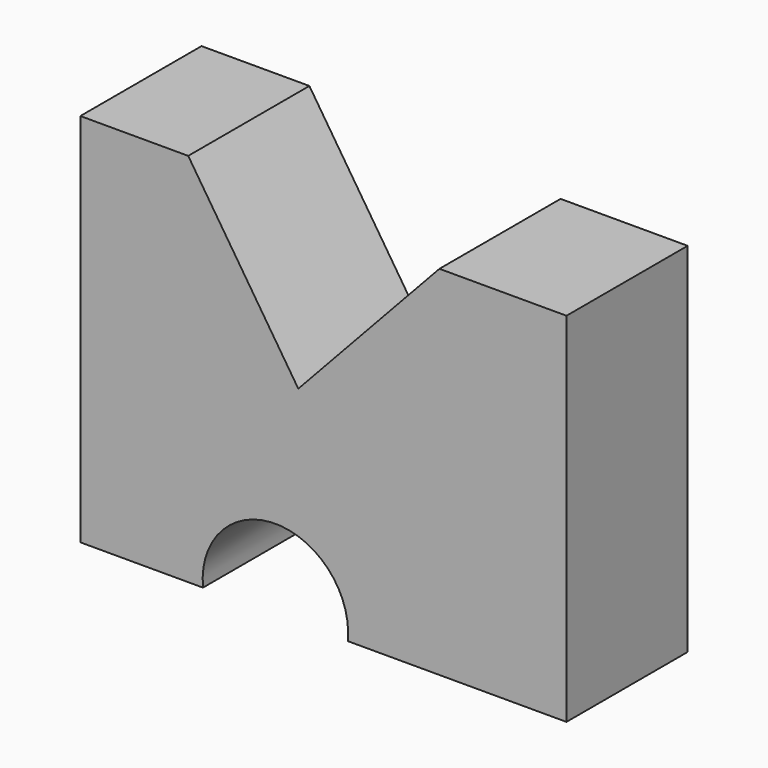
from build123d import *

# Parameters (mm, degrees)
F1_DEPTH = 50.8


with BuildPart() as f1:
    # F0 (on Front) → F1 (new body)
    with BuildSketch(Plane.XZ):
        with BuildLine():
            Line((47.330726, 50.8), (0, 0))
            Line((0, 0), (-36.922927, 56.747319))
            Line((-36.922927, 56.747319), (-73.102435, 56.747319))
            Line((-73.102435, 56.747319), (-73.102435, -69.13756))
            Line((-73.102435, -69.13756), (-31.966829, -69.13756))
            ThreePointArc((-31.966829, -69.13756), (-7.681952, -42.361619), (16.602924, -69.13756))
            Line((16.602924, -69.13756), (89.953171, -69.13756))
            Line((89.953171, -69.13756), (89.953171, 50.8))
            Line((89.953171, 50.8), (47.330726, 50.8))
        make_face()
    extrude(amount=F1_DEPTH)


solid = f1.part
